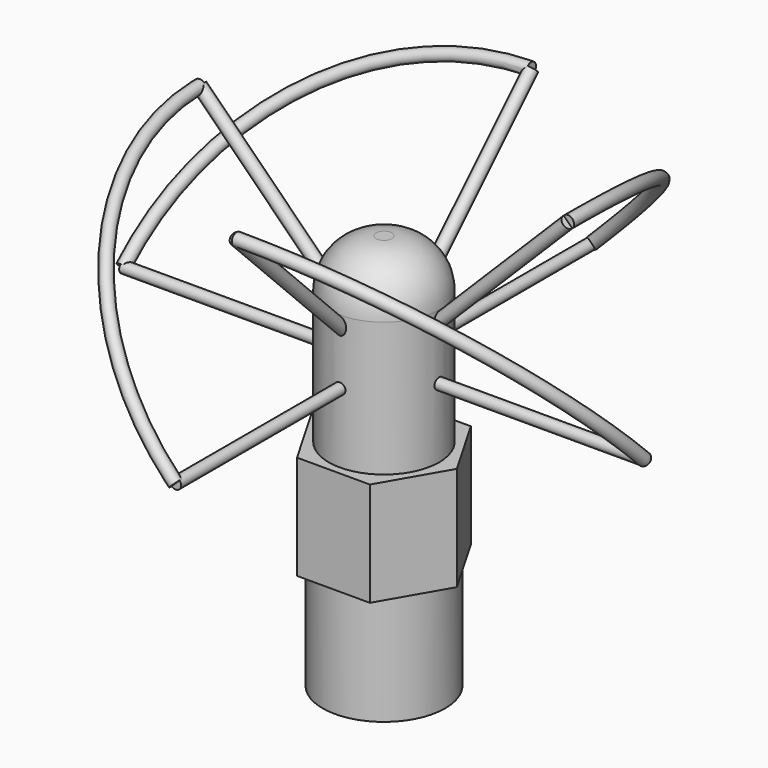
from build123d import *

# Parameters (mm, degrees)
F0_R      = 3.885
F1_DEPTH  = 7
F3_DEPTH  = 6.6
F4_R      = 3.5
F5_DEPTH  = 11.5
F6_R      = 3
F7_R      = 0.35
F9_DEPTH  = 16.5
F8_R      = 0.35
F10_DEPTH = 16.5
F14_R     = 0.385
F15_DEPTH = 16.5
F17_R     = 0.385
F18_DEPTH = 16.5
F22_R     = 0.385
F23_DEPTH = 16.5
F24_R     = 0.385
F25_DEPTH = 16.5
F26_R     = 0.385
F27_ANGLE = 90
F28_R     = 0.385
F29_ANGLE = 90
F30_ANGLE = 90
F31_ANGLE = 90


with BuildPart() as f1:
    # F0 (on Top) → F1 (new body)
    with BuildSketch(Plane.XY):
        Circle(F0_R)
    extrude(amount=F1_DEPTH)

    # F2 (on face) → F3 (join)
    with BuildSketch(Plane.XY.offset(7)):
        Polygon((2.3094010768, 4), (-2.3094010768, 4), (-4.6188021535, 0), (-2.3094010768, -4), (2.3094010768, -4), (4.6188021535, 0), align=None)
    extrude(amount=F3_DEPTH)

    # F4 (on face) → F5 (join)
    with BuildSketch(Plane.XY.offset(13.6)):
        Circle(F4_R)
    extrude(amount=F5_DEPTH)

    # F6
    f6_edges = [f1.edges().sort_by_distance(p)[0] for p in [
        (-3.5, 0, 25.1),
    ]]
    fillet(f6_edges, radius=F6_R)

    # F7 (on Front) → F9 (join, symmetric)
    with BuildSketch(Plane.XZ):
        with Locations((0, 18)):
            Circle(F7_R)
    extrude(amount=F9_DEPTH, both=True)

    # F8 (on Right) → F10 (join, symmetric)
    with BuildSketch(Plane.YZ):
        with Locations((0, 18)):
            Circle(F8_R)
    extrude(amount=F10_DEPTH, both=True)



with BuildPart() as f15:
    # F14 (on line) → F15 (new body)
    with BuildSketch(Plane(origin=(0, 9, 9), x_dir=(-1, 0, 0), z_dir=(0, 0.7071067812, 0.7071067812))):
        with Locations((0, 12.7279220614)):
            Circle(F14_R)
    extrude(amount=F15_DEPTH)


with BuildPart() as f1_1:
    add(f1.part)

    add(f15.part)  # F18 merges F15
    # F17 (on line) → F18 (join)
    with BuildSketch(Plane(origin=(0, -9, 9), x_dir=(1, 0, 0), z_dir=(0, 0.7071067812, -0.7071067812))):
        with Locations((0, -12.7279220614)):
            Circle(F17_R)
    extrude(amount=-F18_DEPTH)

    # F22 (on line) → F23 (join)
    with BuildSketch(Plane(origin=(-9, 0, 9), x_dir=(0.7071067812, 0, 0.7071067812), z_dir=(-0.7071067812, 0, 0.7071067812))):
        with Locations((12.7279220614, 0)):
            Circle(F22_R)
    extrude(amount=F23_DEPTH)

    # F24 (on line) → F25 (join)
    with BuildSketch(Plane(origin=(9, 0, 9), x_dir=(0, -1, 0), z_dir=(-0.7071067812, 0, -0.7071067812))):
        with Locations((0, 12.7279220614)):
            Circle(F24_R)
    extrude(amount=-F25_DEPTH)

    # F26 (on Front) → F27 (revolve)
    with BuildSketch(Plane.XZ):
        with Locations((11.6672618896, 29.6672618896)):
            Circle(F26_R)
    revolve(axis=Axis((0.6538585199, 0, 17.3461414801), (-0.7071067812, 0, 0.7071067812)), revolution_arc=F27_ANGLE)

    # F28 (on Right) → F29 (revolve)
    with BuildSketch(Plane.YZ):
        with Locations((-11.6672618896, 29.6672618896)):
            Circle(F28_R)
    revolve(axis=Axis((0, 0.7704874831, 18.7704874831), (0, 0.7071067812, 0.7071067812)), revolution_arc=F29_ANGLE)

    # F28 (on Right) → F30 (revolve)
    with BuildSketch(Plane.YZ):
        with Locations((11.6672618896, 29.6672618896)):
            Circle(F28_R)
    revolve(axis=Axis((0, -0.9514876344, 18.9514876344), (0, -0.7071067812, 0.7071067812)), revolution_arc=F30_ANGLE)

    # F26 (on Front) → F31 (revolve)
    with BuildSketch(Plane.XZ):
        with Locations((-11.6672618896, 29.6672618896)):
            Circle(F26_R)
    revolve(axis=Axis((-0.7859550333, 0, 17.2140449667), (0.7071067812, 0, 0.7071067812)), revolution_arc=F31_ANGLE)


solid = f1_1.part
